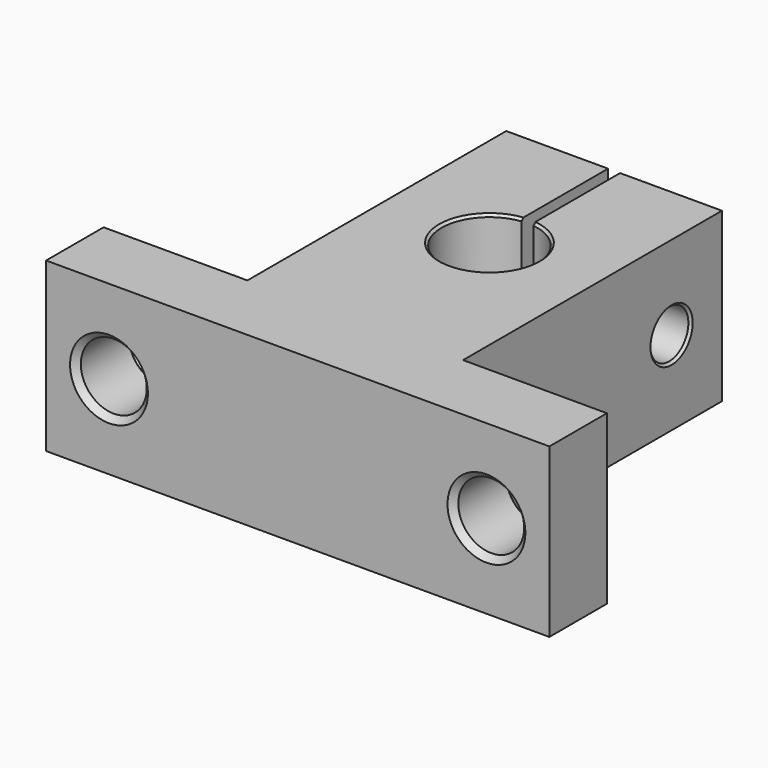
from build123d import *

# Parameters (mm, degrees)
CYLINDER036_R      = 3.5
CYLINDER036_DEPTH  = 4.75
CYLINDER035_R      = 2
CYLINDER035_DEPTH  = 18
CYLINDER033_R      = 4
CYLINDER033_DEPTH  = 14
BOX012_W           = 1
BOX012_H           = 10
BOX012_DEPTH       = 14
CYLINDER034_R      = 2.75
CYLINDER034_DEPTH  = 6
CYLINDER032_R      = 2.75
CYLINDER032_DEPTH  = 6
BOX011_W           = 42
BOX011_H           = 6
BOX011_DEPTH       = 14
BOX013_W           = 18
BOX013_H           = 27
BOX013_DEPTH       = 14
CHAMFER001005_SIZE = 0.5
CHAMFER001003_SIZE = 0.2


with BuildPart() as cylinder036:
    # Cylinder036 → Cylinder036 (new body)
    with BuildSketch(Plane(origin=(0, 21.75, 7), x_dir=(0, 0, -1), z_dir=(1, 0, 0))):
        Circle(CYLINDER036_R)
    extrude(amount=CYLINDER036_DEPTH)


with BuildPart() as cylinder035:
    # Cylinder035 → Cylinder035 (new body)
    with BuildSketch(Plane(origin=(0, 21.75, 7), x_dir=(0, 0, -1), z_dir=(1, 0, 0))):
        Circle(CYLINDER035_R)
    extrude(amount=CYLINDER035_DEPTH)


with BuildPart() as cylinder033:
    # Cylinder033 → Cylinder033 (new body)
    with BuildSketch(Plane(origin=(9, 14, 0), x_dir=(1, 0, 0), z_dir=(0, 0, 1))):
        Circle(CYLINDER033_R)
    extrude(amount=CYLINDER033_DEPTH)


with BuildPart() as cube007:
    # Box012 → Box012 (new body)
    with BuildSketch(Plane(origin=(8.5, 17, 0), x_dir=(1, 0, 0), z_dir=(0, 0, 1))):
        with Locations((0.5, 5)):
            Rectangle(BOX012_W, BOX012_H)
    extrude(amount=BOX012_DEPTH)


with BuildPart() as cylinder034:
    # Cylinder034 → Cylinder034 (new body)
    with BuildSketch(Plane(origin=(24.75, 0, 7), x_dir=(1, 0, 0), z_dir=(0, -1, 0))):
        Circle(CYLINDER034_R)
    extrude(amount=CYLINDER034_DEPTH)


with BuildPart() as cylinder032:
    # Cylinder032 → Cylinder032 (new body)
    with BuildSketch(Plane(origin=(-6.75, 0, 7), x_dir=(1, 0, 0), z_dir=(0, -1, 0))):
        Circle(CYLINDER032_R)
    extrude(amount=CYLINDER032_DEPTH)


with BuildPart() as cube006:
    # Box011 → Box011 (new body)
    with BuildSketch(Plane(origin=(-12, -6, 0), x_dir=(1, 0, 0), z_dir=(0, 0, 1))):
        with Locations((21, 3)):
            Rectangle(BOX011_W, BOX011_H)
    extrude(amount=BOX011_DEPTH)


with BuildPart() as chamfer001003:
    # Box013 → Box013 (new body)
    with BuildSketch(Plane.XY):
        with Locations((9, 13.5)):
            Rectangle(BOX013_W, BOX013_H)
    extrude(amount=BOX013_DEPTH)

    # Fusion007005: union Cube006
    add(cube006.part)

    # Cut002021: cut Cylinder032
    add(cylinder032.part, mode=Mode.SUBTRACT)

    # Cut002017: cut Cylinder034
    add(cylinder034.part, mode=Mode.SUBTRACT)

    # Cut002022: cut Cube007
    add(cube007.part, mode=Mode.SUBTRACT)

    # Cut002018: cut Cylinder033
    add(cylinder033.part, mode=Mode.SUBTRACT)

    # Cut002019: cut Cylinder035
    add(cylinder035.part, mode=Mode.SUBTRACT)

    # Cut002020: cut Cylinder036
    add(cylinder036.part, mode=Mode.SUBTRACT)

    # Chamfer001005
    chamfer001005_edges = [chamfer001003.edges().sort_by_distance(p)[0] for p in [
        (0, 21.75, 10.5),
        (-9.5, 0, 7),
        (22, 0, 7),
        (-9.5, -6, 7),
        (22, -6, 7),
    ]]
    chamfer(chamfer001005_edges, length=CHAMFER001005_SIZE)

    # Chamfer001003
    chamfer001003_edges = [chamfer001003.edges().sort_by_distance(p)[0] for p in [
        (6.354249, 11, 14),
        (12, 16.645751, 14),
        (6.354249, 11, 0),
        (12, 16.645751, 0),
        (18, 21.75, 9),
    ]]
    chamfer(chamfer001003_edges, length=CHAMFER001003_SIZE)


solid = chamfer001003.part
